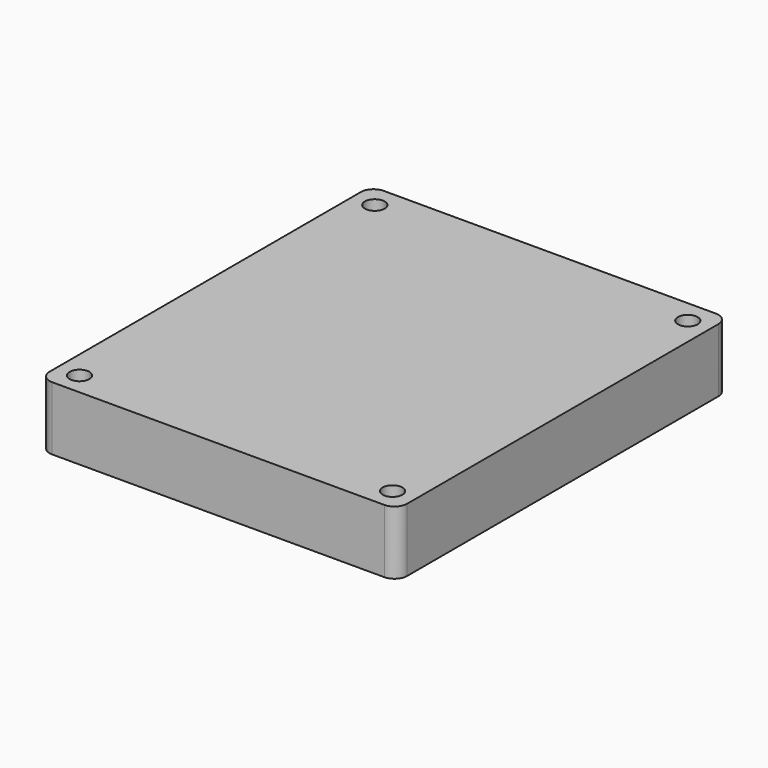
from build123d import *

# Parameters (mm, degrees)
CYLINDER010_R     = 1.55
CYLINDER010_DEPTH = 10
CYLINDER011_R     = 1.55
CYLINDER011_DEPTH = 10
CYLINDER012_R     = 1.55
CYLINDER012_DEPTH = 10
CYLINDER_R        = 1.55
CYLINDER_DEPTH    = 10
BOX_W             = 56.21
BOX_H             = 65.15
BOX_DEPTH         = 10
FILLET024_R       = 2


with BuildPart() as cylinder010:
    # Cylinder010 → Cylinder010 (new body)
    with BuildSketch(Plane(origin=(3.5, 61.52, 0), x_dir=(1, 0, 0), z_dir=(0, 0, 1))):
        Circle(CYLINDER010_R)
    extrude(amount=CYLINDER010_DEPTH)


with BuildPart() as cylinder011:
    # Cylinder011 → Cylinder011 (new body)
    with BuildSketch(Plane(origin=(52.71, 3.5, 0), x_dir=(1, 0, 0), z_dir=(0, 0, 1))):
        Circle(CYLINDER011_R)
    extrude(amount=CYLINDER011_DEPTH)


with BuildPart() as cylinder012:
    # Cylinder012 → Cylinder012 (new body)
    with BuildSketch(Plane(origin=(52.71, 61.52, 0), x_dir=(1, 0, 0), z_dir=(0, 0, 1))):
        Circle(CYLINDER012_R)
    extrude(amount=CYLINDER012_DEPTH)


with BuildPart() as fusion_holes:
    # Cylinder → Cylinder (new body)
    with BuildSketch(Plane(origin=(3.5, 3.5, 0), x_dir=(1, 0, 0), z_dir=(0, 0, 1))):
        Circle(CYLINDER_R)
    extrude(amount=CYLINDER_DEPTH)

    # Fusion: union Cylinder010, Cylinder011, Cylinder012
    add(cylinder010.part)
    add(cylinder011.part)
    add(cylinder012.part)


with BuildPart() as board:
    # Box → Box (new body)
    with BuildSketch(Plane.XY):
        with Locations((28.105, 32.575)):
            Rectangle(BOX_W, BOX_H)
    extrude(amount=BOX_DEPTH)

    # Fillet024
    fillet024_edges = [board.edges().sort_by_distance(p)[0] for p in [
        (0, 0, 5),
        (0, 65.15, 5),
        (56.21, 0, 5),
        (56.21, 65.15, 5),
    ]]
    fillet(fillet024_edges, radius=FILLET024_R)

    # Cut: cut Fusion - holes
    add(fusion_holes.part, mode=Mode.SUBTRACT)


with BuildPart() as board_1:
    # Cut placement: moved
    add(board.part.moved(Location((0, 2.5, 19))))


solid = board_1.part
